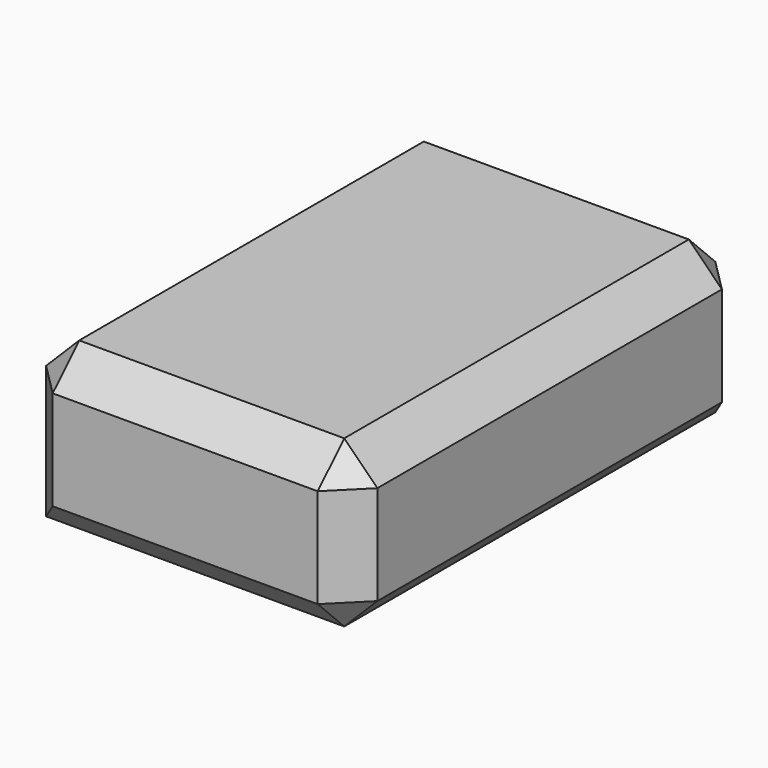
from build123d import *

# Parameters (mm, degrees)
F0_W     = 50.8
F0_H     = 76.2
F1_DEPTH = 25.4
F2_SIZE  = 5.08


with BuildPart() as f1:
    # F0 (on Top) → F1 (new body)
    with BuildSketch(Plane.XY):
        Rectangle(F0_W, F0_H)
    extrude(amount=F1_DEPTH)

    # F2
    f2_edges = [f1.edges().sort_by_distance(p)[0] for p in [
        (25.4, 0, 25.4),
        (0, 38.1, 25.4),
        (-25.4, 0, 25.4),
        (0, -38.1, 25.4),
        (-25.4, -38.1, 12.7),
        (25.4, -38.1, 12.7),
        (0, -38.1, 0),
        (25.4, 38.1, 12.7),
        (25.4, 0, 0),
    ]]
    chamfer(f2_edges, length=F2_SIZE)


solid = f1.part
